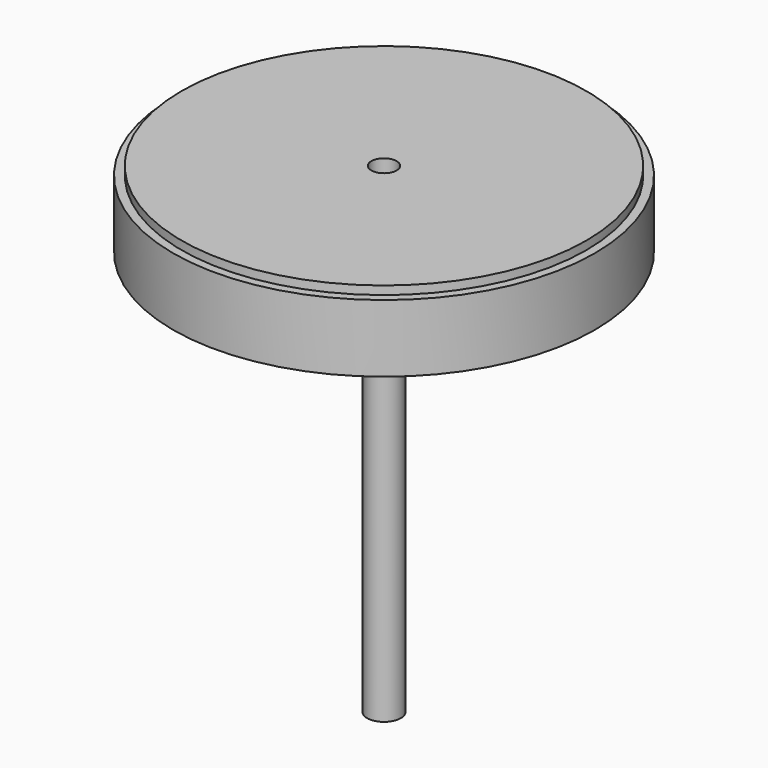
from build123d import *

# Parameters (mm, degrees)
F0_R     = 152.4
F1_DEPTH = 6.35
F2_R     = 158.75
F3_DEPTH = 50.8
F4_R     = 6.35
F5_DEPTH = 57.151
F6_R     = 12.7
F7_DEPTH = 304.8
F8_R     = 9.525
F9_DEPTH = 361.951


with BuildPart() as f1:
    # F0 (on Top) → F1 (new body)
    with BuildSketch(Plane.XY):
        Circle(F0_R)
    extrude(amount=-F1_DEPTH)

    # F2 (on face) → F3 (join)
    with BuildSketch(Plane(origin=(0, 0, -6.35), x_dir=(1, 0, 0), z_dir=(0, 0, -1))):
        Circle(F2_R)
    extrude(amount=F3_DEPTH)

    # F4 (on face) → F5 (cut, through all)
    with BuildSketch(Plane.XY):
        Circle(F4_R)
    extrude(amount=-F5_DEPTH, mode=Mode.SUBTRACT)

    # F6 (on face) → F7 (join)
    with BuildSketch(Plane(origin=(0, 0, -57.15), x_dir=(1, 0, 0), z_dir=(0, 0, -1))):
        Circle(F6_R)
    extrude(amount=F7_DEPTH)

    # F8 (on face) → F9 (cut, through all)
    with BuildSketch(Plane(origin=(0, 0, -361.95), x_dir=(1, 0, 0), z_dir=(0, 0, -1))):
        Circle(F8_R)
    extrude(amount=-F9_DEPTH, mode=Mode.SUBTRACT)


solid = f1.part
